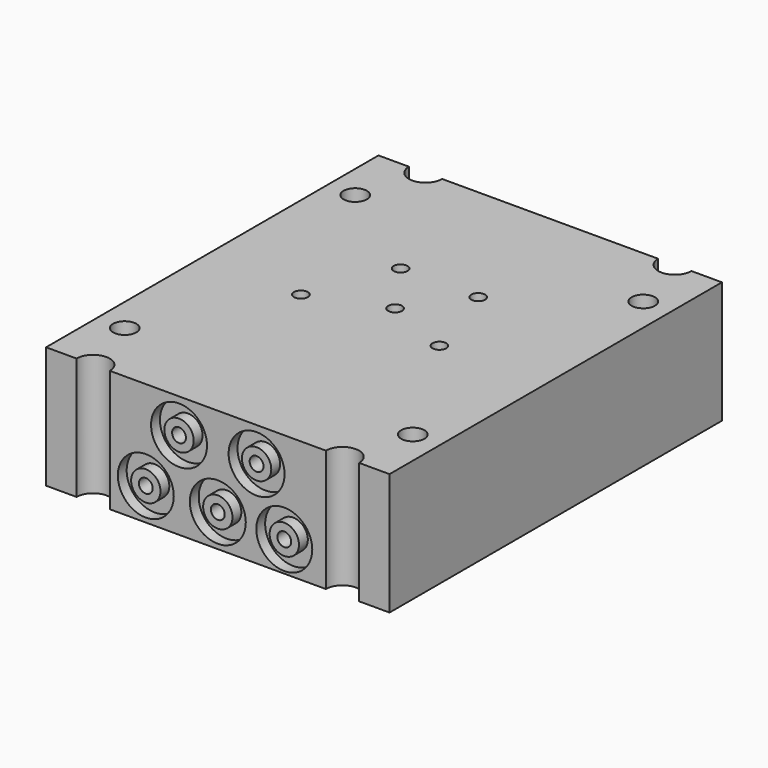
from build123d import *

# Parameters (mm, degrees)
F0_W      = 62
F0_H      = 75
F1_DEPTH  = 14
F2_W      = 62
F2_H      = 75
F3_DEPTH  = 8
F4_R      = 1.25
F5_DEPTH  = 38
F6_R      = 4.85
F6_R_2    = 2.65
F7_DEPTH  = 2
F9_R      = 1.25
F10_DEPTH = 50
F11_R     = 5.05
F11_R_2   = 2.65
F12_DEPTH = 2
F13_DEPTH = 40
F14_DEPTH = 34.6
F16_DEPTH = 22
F8_R      = 2.1
F17_DEPTH = 3
F18_R     = 2.1
F19_DEPTH = 2


with BuildPart() as f1:
    # F0 (on Top) → F1 (new body)
    with BuildSketch(Plane.XY):
        Rectangle(F0_W, F0_H)
    extrude(amount=F1_DEPTH)

    # F2 (on face) → F3 (join)
    with BuildSketch(Plane(origin=(0, 0, 0), x_dir=(1, 0, 0), z_dir=(0, 0, -1))):
        Rectangle(F2_W, F2_H)
    extrude(amount=F3_DEPTH)

    # F4 (on face) → F5 (cut)
    with BuildSketch(Plane(origin=(0, 0, -8), x_dir=(1, 0, 0), z_dir=(0, 0, -1))):
        with Locations((-13, 2.5)):
            Circle(F4_R)
        with Locations((-7, -12.5)):
            Circle(F4_R)
        with Locations((0, -2.5)):
            Circle(F4_R)
        with Locations((7, -12.5)):
            Circle(F4_R)
        with Locations((12, 2.5)):
            Circle(F4_R)
    extrude(amount=-F5_DEPTH, mode=Mode.SUBTRACT)

    # F6 (on face) → F7 (cut)
    with BuildSketch(Plane(origin=(0, 0, -8), x_dir=(1, 0, 0), z_dir=(0, 0, -1))):
        with Locations((-7, -12.5)):
            Circle(F6_R)
        with Locations((-7, -12.5)):
            Circle(F6_R_2, mode=Mode.SUBTRACT)
        with Locations((-13, 2.5)):
            Circle(F6_R)
        with Locations((-13, 2.5)):
            Circle(F6_R_2, mode=Mode.SUBTRACT)
        with Locations((0, -2.5)):
            Circle(F6_R)
        with Locations((0, -2.5)):
            Circle(F6_R_2, mode=Mode.SUBTRACT)
        with Locations((12, 2.5)):
            Circle(F6_R)
        with Locations((12, 2.5)):
            Circle(F6_R_2, mode=Mode.SUBTRACT)
        with Locations((7, -12.5)):
            Circle(F6_R)
        with Locations((7, -12.5)):
            Circle(F6_R_2, mode=Mode.SUBTRACT)
    extrude(amount=-F7_DEPTH, mode=Mode.SUBTRACT)

    # F9 (on face) → F10 (cut)
    with BuildSketch(Plane.XZ.offset(37.5)):
        with Locations((-7, 7.8316577617)):
            Circle(F9_R)
        with Locations((7, 7.8316577617)):
            Circle(F9_R)
    extrude(amount=-F10_DEPTH, mode=Mode.SUBTRACT)

    # F11 (on face) → F12 (cut)
    with BuildSketch(Plane.XZ.offset(37.5)):
        with Locations((-7, 7.8316577617)):
            Circle(F11_R)
        with Locations((-7, 7.8316577617)):
            Circle(F11_R_2, mode=Mode.SUBTRACT)
        with Locations((-13, -2.1683422383)):
            Circle(F11_R)
        with Locations((-13, -2.1683422383)):
            Circle(F11_R_2, mode=Mode.SUBTRACT)
        with Locations((0, -2.0990659878)):
            Circle(F11_R)
        with Locations((0, -2.0990659878)):
            Circle(F11_R_2, mode=Mode.SUBTRACT)
        with Locations((12, -2.5362078735)):
            Circle(F11_R)
        with Locations((12, -2.5362078735)):
            Circle(F11_R_2, mode=Mode.SUBTRACT)
        with Locations((7, 7.8316577617)):
            Circle(F11_R)
        with Locations((7, 7.8316577617)):
            Circle(F11_R_2, mode=Mode.SUBTRACT)
    extrude(amount=-F12_DEPTH, mode=Mode.SUBTRACT)

    # F9 (on face) → F13 (cut)
    with BuildSketch(Plane.XZ.offset(37.5)):
        with Locations((0, -2.0990659878)):
            Circle(F9_R)
    extrude(amount=-F13_DEPTH, mode=Mode.SUBTRACT)

    # F9 (on face) → F14 (cut)
    with BuildSketch(Plane.XZ.offset(37.5)):
        with Locations((12, -2.5362078735)):
            Circle(F9_R)
        with Locations((-13, -2.1683422383)):
            Circle(F9_R)
    extrude(amount=-F14_DEPTH, mode=Mode.SUBTRACT)

    # F15 (on face) → F16 (cut)
    with BuildSketch(Plane(origin=(0, 0, -8), x_dir=(1, 0, 0), z_dir=(0, 0, -1))):
        with BuildLine():
            ThreePointArc((-25.5, 37.5), (-22.5, 34.5), (-19.5, 37.5))
            Line((-19.5, 37.5), (-25.5, 37.5))
        make_face()
        with BuildLine():
            Line((25.5, 37.5), (19.5, 37.5))
            ThreePointArc((19.5, 37.5), (22.5, 34.5), (25.5, 37.5))
        make_face()
        with BuildLine():
            ThreePointArc((-19.5, -37.5), (-22.5, -34.5), (-25.5, -37.5))
            Line((-25.5, -37.5), (-19.5, -37.5))
        make_face()
        with BuildLine():
            Line((19.5, -37.5), (25.5, -37.5))
            ThreePointArc((25.5, -37.5), (22.5, -34.5), (19.5, -37.5))
        make_face()
    extrude(amount=-F16_DEPTH, mode=Mode.SUBTRACT)

    # F8 (on face) → F17 (cut)
    with BuildSketch(Plane.XY.offset(14)):
        with Locations((-26, 26)):
            Circle(F8_R)
        with Locations((-26, -26)):
            Circle(F8_R)
        with Locations((26, -26)):
            Circle(F8_R)
        with Locations((26, 26)):
            Circle(F8_R)
    extrude(amount=-F17_DEPTH, mode=Mode.SUBTRACT)

    # F18 (on face) → F19 (join)
    with BuildSketch(Plane(origin=(0, 0, -8), x_dir=(1, 0, 0), z_dir=(0, 0, -1))):
        with Locations((-26, 26)):
            Circle(F18_R)
        with Locations((26, 26)):
            Circle(F18_R)
        with Locations((26, -26)):
            Circle(F18_R)
        with Locations((-26, -26)):
            Circle(F18_R)
    extrude(amount=F19_DEPTH)


solid = f1.part
